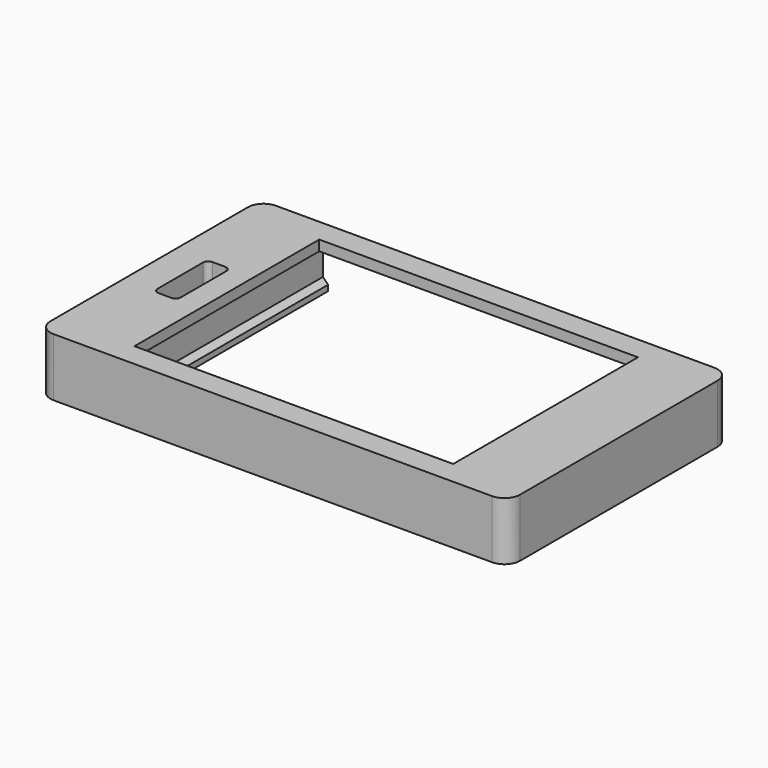
from build123d import *

# Parameters (mm, degrees)
SKETCH001_W     = 90.71
SKETCH001_H     = 53.7
PAD_DEPTH       = 2
SKETCH002_W     = 61.57
SKETCH002_H     = 44.62
POCKET_DEPTH    = 2.001
SKETCH004_W     = 90.71
SKETCH004_H     = 53.7
SKETCH004_W_2   = 61.57
SKETCH004_H_2   = 44.62
PAD001_DEPTH    = 9.25
POCKET001_DEPTH = 25.5
POCKET002_DEPTH = 1.351
FILLET_R        = 3
SKETCH006_R     = 2.2
HOLE_DEPTH      = 7
POCKET007_DEPTH = 6.5
FILLET002_R     = 2.5
FILLET003_R     = 1
SKETCH014_R     = 1.5
POCKET008_DEPTH = 2.25
FILLET004_R     = 1


with BuildPart() as part:
    # Sketch001 → Pad (new body)
    with BuildSketch(Plane.XY):
        with Locations((-2.23, 0)):
            Rectangle(SKETCH001_W, SKETCH001_H)
    extrude(amount=-PAD_DEPTH)

    # Sketch002 (on Face5 of Pad) → Pocket (cut, through all)
    with BuildSketch(Plane.XY):
        with Locations((-1.8, 0)):
            Rectangle(SKETCH002_W, SKETCH002_H)
    extrude(amount=-POCKET_DEPTH, mode=Mode.SUBTRACT)

    # Sketch004 (on Face5 of Pocket) → Pad001 (join)
    with BuildSketch(Plane(origin=(0, 0, -2), x_dir=(1, 0, 0), z_dir=(0, 0, -1))):
        with Locations((-2.23, 0)):
            Rectangle(SKETCH004_W, SKETCH004_H)
        with Locations((-1.8, 0)):
            Rectangle(SKETCH004_W_2, SKETCH004_H_2, mode=Mode.SUBTRACT)
    extrude(amount=PAD001_DEPTH)

    # Sketch003 → Pocket001 (cut, symmetric)
    with BuildSketch(Plane.XZ):
        Polygon((-34.5, -15.15), (-34.5, -10.15), (-35.5, -9.15), (-35.5, -2), (0, -2), (0, -15.15), align=None)
    pocket001 = extrude(amount=POCKET001_DEPTH, both=True, mode=Mode.SUBTRACT)

    # Mirrored: Pocket001 across YZ
    add(pocket001.mirror(Plane.YZ), mode=Mode.SUBTRACT)

    # Sketch005 (on Face20 of Mirrored) → Pocket002 (cut, through all)
    with BuildSketch(Plane.XZ.offset(-25.5)):
        Polygon((-34.5, -11.25), (-34.5, -10.15), (-35.5, -9.15), (-35.5, -2), (35.5, -2), (35.5, -9.15), (34.5, -10.15), (34.5, -11.25), align=None)
    extrude(amount=-POCKET002_DEPTH, mode=Mode.SUBTRACT)

    # Fillet
    fillet_edges = [part.edges().sort_by_distance(p)[0] for p in [
        (43.125, 26.85, -1),
        (43.125, 26.85, -6.625),
        (43.125, -26.85, -1),
        (43.125, -26.85, -6.625),
        (-47.585, -26.85, -1),
        (-47.585, -26.85, -6.625),
        (-47.585, 26.85, -1),
        (-47.585, 26.85, -6.625),
    ]]
    fillet(fillet_edges, radius=FILLET_R)

    # Sketch006 (on Face17 of Fillet) → Hole (cut)
    with BuildSketch(Plane(origin=(0, 0, -11.25), x_dir=(1, 0, 0), z_dir=(0, 0, -1))):
        with Locations((-43.585, 22.85)):
            Circle(SKETCH006_R)
        with Locations((-43.585, -22.85)):
            Circle(SKETCH006_R)
        with Locations((39.125, -22.85)):
            Circle(SKETCH006_R)
        with Locations((39.125, 22.85)):
            Circle(SKETCH006_R)
        with Locations((-43.585, 22.85)):
            Circle(SKETCH006_R)
        with Locations((-43.585, -22.85)):
            Circle(SKETCH006_R)
        with Locations((39.125, 22.85)):
            Circle(SKETCH006_R)
        with Locations((39.125, -22.85)):
            Circle(SKETCH006_R)
    extrude(amount=-HOLE_DEPTH, mode=Mode.SUBTRACT)

    # Sketch011 → Pocket007 (cut, symmetric)
    with BuildSketch(Plane.XZ):
        Polygon((-37.085, 0), (-37.085, -11.25), (-47.585, -11.25), (-47.585, -6.75), (-41.585, -6.75), (-41.585, 0), align=None)
    extrude(amount=POCKET007_DEPTH, both=True, mode=Mode.SUBTRACT)

    # Fillet002
    fillet002_edges = [part.edges().sort_by_distance(p)[0] for p in [
        (-41.585, 0, -6.75),
    ]]
    fillet(fillet002_edges, radius=FILLET002_R)

    # Fillet003
    fillet003_edges = [part.edges().sort_by_distance(p)[0] for p in [
        (-41.585, -6.5, -2.125),
        (-37.085, -6.5, -5.625),
        (-37.085, 6.5, -5.625),
        (-41.585, 6.5, -2.125),
    ]]
    fillet(fillet003_edges, radius=FILLET003_R)

    # Sketch014 (on Face4 of Fillet003) → Pocket008 (cut)
    with BuildSketch(Plane(origin=(0, 0, -11.25), x_dir=(1, 0, 0), z_dir=(0, 0, -1))):
        with Locations((-42.585, 16)):
            Circle(SKETCH014_R)
        with Locations((-42.585, -16)):
            Circle(SKETCH014_R)
    extrude(amount=-POCKET008_DEPTH, mode=Mode.SUBTRACT)

    # Fillet004
    fillet004_edges = [part.edges().sort_by_distance(p)[0] for p in [
        (-44.085, -16, -9),
        (-44.085, 16, -9),
    ]]
    fillet(fillet004_edges, radius=FILLET004_R)


solid = part.part
